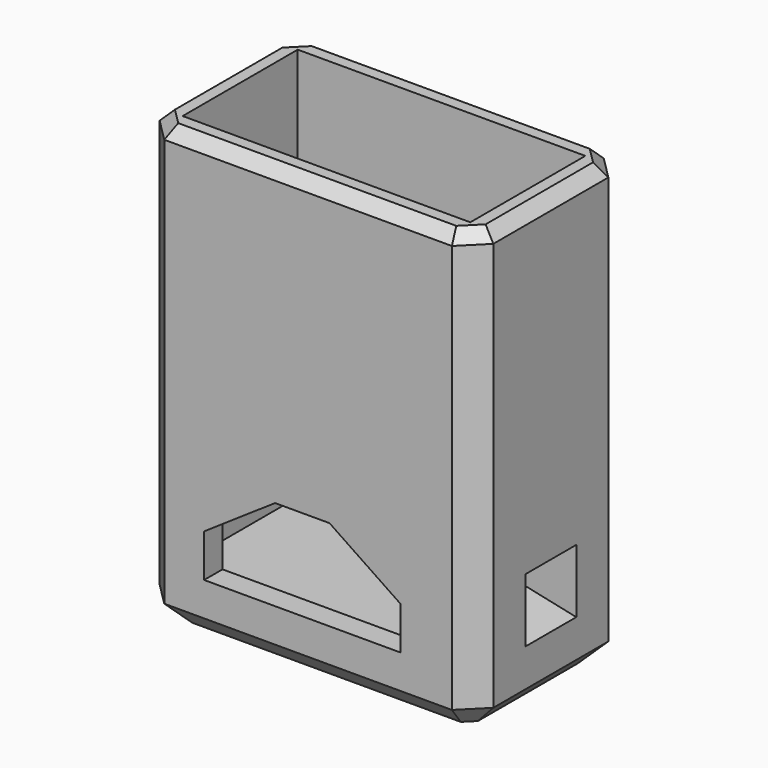
from build123d import *

# Parameters (mm, degrees)
F0_W      = 29
F0_H      = 16.5
F1_DEPTH  = 38.5
F2_T      = -2
F3_DEPTH  = 2.25
F4_SIZE   = 2
F5_SIZE   = 2
F6_SIZE   = 1
F8_DEPTH  = 16.501
F9_W      = 7.54
F9_H      = 7.25
F9_R      = 1.1
F10_DEPTH = 6.35
F11_W     = 5.538
F11_H     = 5.533
F13_W     = 5.538
F13_H     = 4.583


with BuildPart() as f1:
    # F0 (on Top) → F1 (new body)
    with BuildSketch(Plane.XY):
        with Locations((14.5, 8.25)):
            Rectangle(F0_W, F0_H)
    extrude(amount=F1_DEPTH)

    # F2
    f2_openings = [f1.faces().sort_by_distance(p)[0] for p in [
        (14.5, 8.25, 38.5),
    ]]
    offset(amount=F2_T, openings=f2_openings)

    # F3 (add): a face of the model
    f3_faces = [f1.faces().sort_by_distance(p)[0] for p in [
        (14.5, 8.25, 2),
    ]]
    extrude(f3_faces, amount=F3_DEPTH)

    # F4
    f4_edges = [f1.edges().sort_by_distance(p)[0] for p in [
        (29, 0, 19.25),
        (29, 16.5, 19.25),
        (0, 0, 19.25),
        (0, 16.5, 19.25),
    ]]
    chamfer(f4_edges, length=F4_SIZE)

    # F5
    f5_edges = [f1.edges().sort_by_distance(p)[0] for p in [
        (0, 8.25, 0),
        (1, 15.5, 0),
        (1, 1, 0),
        (14.5, 16.5, 0),
        (14.5, 0, 0),
        (28, 15.5, 0),
        (28, 1, 0),
        (29, 8.25, 0),
    ]]
    chamfer(f5_edges, length=F5_SIZE)

    # F6
    f6_edges = [f1.edges().sort_by_distance(p)[0] for p in [
        (14.5, 16.5, 38.5),
        (1, 15.5, 38.5),
        (0, 8.25, 38.5),
        (1, 1, 38.5),
        (14.5, 0, 38.5),
        (28, 1, 38.5),
        (29, 8.25, 38.5),
        (28, 15.5, 38.5),
    ]]
    chamfer(f6_edges, length=F6_SIZE)

    # F7 (on face) → F8 (cut, through all)
    with BuildSketch(Plane.XZ):
        Polygon((5.464, 4.94), (22.536, 4.94), (22.536, 8.664), (16.365, 12.834), (11.635, 12.834), (5.464, 8.664), align=None)
    extrude(amount=-F8_DEPTH, mode=Mode.SUBTRACT)

    # F9 (on face) → F10 (join)
    with BuildSketch(Plane.YZ.offset(29)):
        with Locations((8.25, 7.875)):
            Rectangle(F9_W, F9_H)
        with Locations((8.25, 9)):
            Circle(F9_R, mode=Mode.SUBTRACT)
    extrude(amount=-F10_DEPTH)

    # F11 (on face) → F14 section 0
    with BuildSketch(Plane.YZ.offset(29)):
        with Locations((8.25, 8.0385)):
            Rectangle(F11_W, F11_H)
    # F13 (on offset) → F14 section 1
    with BuildSketch(Plane.YZ.offset(24.55)):
        with Locations((8.25, 8.5135)):
            Rectangle(F13_W, F13_H)
    loft(mode=Mode.SUBTRACT)


solid = f1.part
